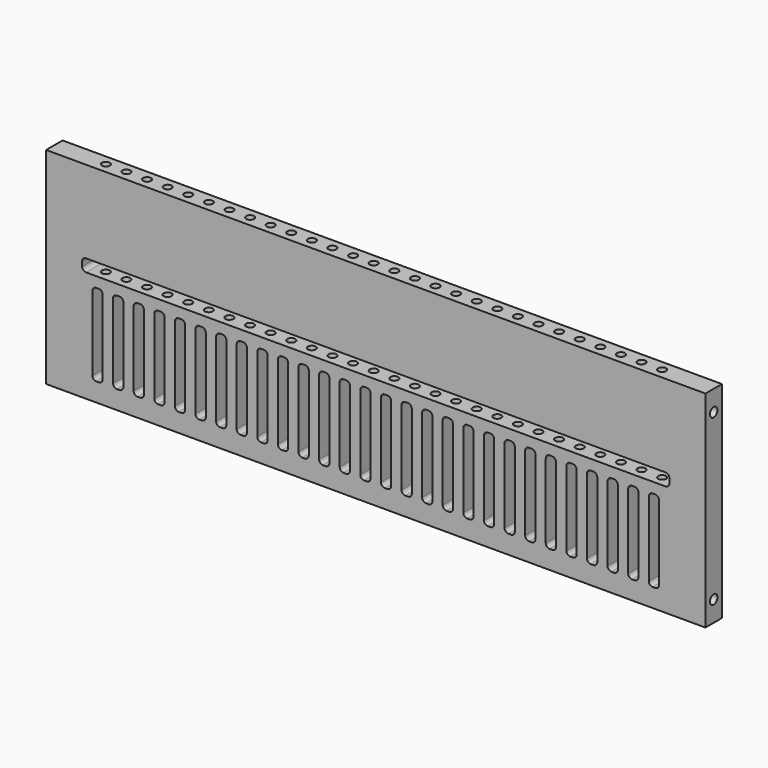
from build123d import *

# Parameters (mm, degrees)
F0_W     = 203.2
F0_H     = 6.35
F1_DEPTH = 63.5
F2_R     = 1.2192
F3_DEPTH = 38.1
F5_DEPTH = 6.351
F7_D     = 2.8702
F7_DEPTH = 12.7
F7_TIP   = 0.8622950744
F9_D     = 2.8702
F9_DEPTH = 12.7
F9_TIP   = 0.8622950744


with BuildPart() as f1:
    # F0 (on Top) → F1 (new body)
    with BuildSketch(Plane.XY):
        with Locations((76.8160429085, 3.175)):
            Rectangle(F0_W, F0_H)
    extrude(amount=F1_DEPTH)

    # F2 (on face) → F3 (cut)
    with BuildSketch(Plane.XY.offset(63.5)):
        with Locations((-8.9089570915, 3.175)):
            Circle(F2_R)
        with Locations((-2.5589570915, 3.175)):
            Circle(F2_R)
        with Locations((3.7910429085, 3.175)):
            Circle(F2_R)
        with Locations((10.1410429085, 3.175)):
            Circle(F2_R)
        with Locations((16.4910429085, 3.175)):
            Circle(F2_R)
        with Locations((22.8410429085, 3.175)):
            Circle(F2_R)
        with Locations((29.1910429085, 3.175)):
            Circle(F2_R)
        with Locations((35.5410429085, 3.175)):
            Circle(F2_R)
        with Locations((41.8910429085, 3.175)):
            Circle(F2_R)
        with Locations((48.2410429085, 3.175)):
            Circle(F2_R)
        with Locations((54.5910429085, 3.175)):
            Circle(F2_R)
        with Locations((60.9410429085, 3.175)):
            Circle(F2_R)
        with Locations((67.2910429085, 3.175)):
            Circle(F2_R)
        with Locations((73.6410429085, 3.175)):
            Circle(F2_R)
        with Locations((79.9910429085, 3.175)):
            Circle(F2_R)
        with Locations((86.3410429085, 3.175)):
            Circle(F2_R)
        with Locations((92.6910429085, 3.175)):
            Circle(F2_R)
        with Locations((99.0410429085, 3.175)):
            Circle(F2_R)
        with Locations((105.3910429085, 3.175)):
            Circle(F2_R)
        with Locations((111.7410429085, 3.175)):
            Circle(F2_R)
        with Locations((118.0910429085, 3.175)):
            Circle(F2_R)
        with Locations((124.4410429085, 3.175)):
            Circle(F2_R)
        with Locations((130.7910429085, 3.175)):
            Circle(F2_R)
        with Locations((137.1410429085, 3.175)):
            Circle(F2_R)
        with Locations((143.4910429085, 3.175)):
            Circle(F2_R)
        with Locations((149.8410429085, 3.175)):
            Circle(F2_R)
        with Locations((156.1910429085, 3.175)):
            Circle(F2_R)
        with Locations((162.5410429085, 3.175)):
            Circle(F2_R)
    extrude(amount=-F3_DEPTH, mode=Mode.SUBTRACT)

    # F4 (on face) → F5 (cut, through all)
    with BuildSketch(Plane.XZ):
        with BuildLine():
            Line((166.1129179085, 38.1), (-12.4808320915, 38.1))
            ThreePointArc((-12.4808320915, 38.1), (-13.3227311028, 37.7512740114), (-13.6714570915, 36.909375))
            Line((-13.6714570915, 36.909375), (-13.6714570915, 35.480625))
            ThreePointArc((-13.6714570915, 35.480625), (-13.3227311028, 34.6387259886), (-12.4808320915, 34.29))
            Line((-12.4808320915, 34.29), (166.1129179085, 34.29))
            ThreePointArc((166.1129179085, 34.29), (166.9548169199, 34.6387259886), (167.3035429085, 35.480625))
            Line((167.3035429085, 35.480625), (167.3035429085, 36.909375))
            ThreePointArc((167.3035429085, 36.909375), (166.9548169199, 37.7512740114), (166.1129179085, 38.1))
        make_face()
        with BuildLine():
            Line((-8.5120820915, 31.115), (-9.3058320915, 31.115))
            ThreePointArc((-9.3058320915, 31.115), (-10.1477311028, 30.7662740114), (-10.4964570915, 29.924375))
            Line((-10.4964570915, 29.924375), (-10.4964570915, 6.905625))
            ThreePointArc((-10.4964570915, 6.905625), (-10.1477311028, 6.0637259886), (-9.3058320915, 5.715))
            Line((-9.3058320915, 5.715), (-8.5120820915, 5.715))
            ThreePointArc((-8.5120820915, 5.715), (-7.6701830801, 6.0637259886), (-7.3214570915, 6.905625))
            Line((-7.3214570915, 6.905625), (-7.3214570915, 29.924375))
            ThreePointArc((-7.3214570915, 29.924375), (-7.6701830801, 30.7662740114), (-8.5120820915, 31.115))
        make_face()
        with BuildLine():
            Line((-0.9714570915, 6.905625), (-0.9714570915, 29.924375))
            ThreePointArc((-0.9714570915, 29.924375), (-1.3201830801, 30.7662740114), (-2.1620820915, 31.115))
            Line((-2.1620820915, 31.115), (-2.9558320915, 31.115))
            ThreePointArc((-2.9558320915, 31.115), (-3.7977311028, 30.7662740114), (-4.1464570915, 29.924375))
            Line((-4.1464570915, 29.924375), (-4.1464570915, 6.905625))
            ThreePointArc((-4.1464570915, 6.905625), (-3.7977311028, 6.0637259886), (-2.9558320915, 5.715))
            Line((-2.9558320915, 5.715), (-2.1620820915, 5.715))
            ThreePointArc((-2.1620820915, 5.715), (-1.3201830801, 6.0637259886), (-0.9714570915, 6.905625))
        make_face()
        with BuildLine():
            Line((5.3785429085, 6.905625), (5.3785429085, 29.924375))
            ThreePointArc((5.3785429085, 29.924375), (5.0298169199, 30.7662740114), (4.1879179085, 31.115))
            Line((4.1879179085, 31.115), (3.3941679085, 31.115))
            ThreePointArc((3.3941679085, 31.115), (2.5522688972, 30.7662740114), (2.2035429085, 29.924375))
            Line((2.2035429085, 29.924375), (2.2035429085, 6.905625))
            ThreePointArc((2.2035429085, 6.905625), (2.5522688972, 6.0637259886), (3.3941679085, 5.715))
            Line((3.3941679085, 5.715), (4.1879179085, 5.715))
            ThreePointArc((4.1879179085, 5.715), (5.0298169199, 6.0637259886), (5.3785429085, 6.905625))
        make_face()
        with BuildLine():
            Line((11.7285429085, 6.905625), (11.7285429085, 29.924375))
            ThreePointArc((11.7285429085, 29.924375), (11.3798169199, 30.7662740114), (10.5379179085, 31.115))
            Line((10.5379179085, 31.115), (9.7441679085, 31.115))
            ThreePointArc((9.7441679085, 31.115), (8.9022688972, 30.7662740114), (8.5535429085, 29.924375))
            Line((8.5535429085, 29.924375), (8.5535429085, 6.905625))
            ThreePointArc((8.5535429085, 6.905625), (8.9022688972, 6.0637259886), (9.7441679085, 5.715))
            Line((9.7441679085, 5.715), (10.5379179085, 5.715))
            ThreePointArc((10.5379179085, 5.715), (11.3798169199, 6.0637259886), (11.7285429085, 6.905625))
        make_face()
        with BuildLine():
            Line((18.0785429085, 6.905625), (18.0785429085, 29.924375))
            ThreePointArc((18.0785429085, 29.924375), (17.7298169199, 30.7662740114), (16.8879179085, 31.115))
            Line((16.8879179085, 31.115), (16.0941679085, 31.115))
            ThreePointArc((16.0941679085, 31.115), (15.2522688972, 30.7662740114), (14.9035429085, 29.924375))
            Line((14.9035429085, 29.924375), (14.9035429085, 6.905625))
            ThreePointArc((14.9035429085, 6.905625), (15.2522688972, 6.0637259886), (16.0941679085, 5.715))
            Line((16.0941679085, 5.715), (16.8879179085, 5.715))
            ThreePointArc((16.8879179085, 5.715), (17.7298169199, 6.0637259886), (18.0785429085, 6.905625))
        make_face()
        with BuildLine():
            Line((24.4285429085, 6.905625), (24.4285429085, 29.924375))
            ThreePointArc((24.4285429085, 29.924375), (24.0798169199, 30.7662740114), (23.2379179085, 31.115))
            Line((23.2379179085, 31.115), (22.4441679085, 31.115))
            ThreePointArc((22.4441679085, 31.115), (21.6022688972, 30.7662740114), (21.2535429085, 29.924375))
            Line((21.2535429085, 29.924375), (21.2535429085, 6.905625))
            ThreePointArc((21.2535429085, 6.905625), (21.6022688972, 6.0637259886), (22.4441679085, 5.715))
            Line((22.4441679085, 5.715), (23.2379179085, 5.715))
            ThreePointArc((23.2379179085, 5.715), (24.0798169199, 6.0637259886), (24.4285429085, 6.905625))
        make_face()
        with BuildLine():
            Line((30.7785429085, 6.905625), (30.7785429085, 29.924375))
            ThreePointArc((30.7785429085, 29.924375), (30.4298169199, 30.7662740114), (29.5879179085, 31.115))
            Line((29.5879179085, 31.115), (28.7941679085, 31.115))
            ThreePointArc((28.7941679085, 31.115), (27.9522688972, 30.7662740114), (27.6035429085, 29.924375))
            Line((27.6035429085, 29.924375), (27.6035429085, 6.905625))
            ThreePointArc((27.6035429085, 6.905625), (27.9522688972, 6.0637259886), (28.7941679085, 5.715))
            Line((28.7941679085, 5.715), (29.5879179085, 5.715))
            ThreePointArc((29.5879179085, 5.715), (30.4298169199, 6.0637259886), (30.7785429085, 6.905625))
        make_face()
        with BuildLine():
            Line((37.1285429085, 6.905625), (37.1285429085, 29.924375))
            ThreePointArc((37.1285429085, 29.924375), (36.7798169199, 30.7662740114), (35.9379179085, 31.115))
            Line((35.9379179085, 31.115), (35.1441679085, 31.115))
            ThreePointArc((35.1441679085, 31.115), (34.3022688972, 30.7662740114), (33.9535429085, 29.924375))
            Line((33.9535429085, 29.924375), (33.9535429085, 6.905625))
            ThreePointArc((33.9535429085, 6.905625), (34.3022688972, 6.0637259886), (35.1441679085, 5.715))
            Line((35.1441679085, 5.715), (35.9379179085, 5.715))
            ThreePointArc((35.9379179085, 5.715), (36.7798169199, 6.0637259886), (37.1285429085, 6.905625))
        make_face()
        with BuildLine():
            Line((43.4785429085, 6.905625), (43.4785429085, 29.924375))
            ThreePointArc((43.4785429085, 29.924375), (43.1298169199, 30.7662740114), (42.2879179085, 31.115))
            Line((42.2879179085, 31.115), (41.4941679085, 31.115))
            ThreePointArc((41.4941679085, 31.115), (40.6522688972, 30.7662740114), (40.3035429085, 29.924375))
            Line((40.3035429085, 29.924375), (40.3035429085, 6.905625))
            ThreePointArc((40.3035429085, 6.905625), (40.6522688972, 6.0637259886), (41.4941679085, 5.715))
            Line((41.4941679085, 5.715), (42.2879179085, 5.715))
            ThreePointArc((42.2879179085, 5.715), (43.1298169199, 6.0637259886), (43.4785429085, 6.905625))
        make_face()
        with BuildLine():
            Line((49.8285429085, 6.905625), (49.8285429085, 29.924375))
            ThreePointArc((49.8285429085, 29.924375), (49.4798169199, 30.7662740114), (48.6379179085, 31.115))
            Line((48.6379179085, 31.115), (47.8441679085, 31.115))
            ThreePointArc((47.8441679085, 31.115), (47.0022688972, 30.7662740114), (46.6535429085, 29.924375))
            Line((46.6535429085, 29.924375), (46.6535429085, 6.905625))
            ThreePointArc((46.6535429085, 6.905625), (47.0022688972, 6.0637259886), (47.8441679085, 5.715))
            Line((47.8441679085, 5.715), (48.6379179085, 5.715))
            ThreePointArc((48.6379179085, 5.715), (49.4798169199, 6.0637259886), (49.8285429085, 6.905625))
        make_face()
        with BuildLine():
            Line((56.1785429085, 6.905625), (56.1785429085, 29.924375))
            ThreePointArc((56.1785429085, 29.924375), (55.8298169199, 30.7662740114), (54.9879179085, 31.115))
            Line((54.9879179085, 31.115), (54.1941679085, 31.115))
            ThreePointArc((54.1941679085, 31.115), (53.3522688972, 30.7662740114), (53.0035429085, 29.924375))
            Line((53.0035429085, 29.924375), (53.0035429085, 6.905625))
            ThreePointArc((53.0035429085, 6.905625), (53.3522688972, 6.0637259886), (54.1941679085, 5.715))
            Line((54.1941679085, 5.715), (54.9879179085, 5.715))
            ThreePointArc((54.9879179085, 5.715), (55.8298169199, 6.0637259886), (56.1785429085, 6.905625))
        make_face()
        with BuildLine():
            Line((62.5285429085, 6.905625), (62.5285429085, 29.924375))
            ThreePointArc((62.5285429085, 29.924375), (62.1798169199, 30.7662740114), (61.3379179085, 31.115))
            Line((61.3379179085, 31.115), (60.5441679085, 31.115))
            ThreePointArc((60.5441679085, 31.115), (59.7022688972, 30.7662740114), (59.3535429085, 29.924375))
            Line((59.3535429085, 29.924375), (59.3535429085, 6.905625))
            ThreePointArc((59.3535429085, 6.905625), (59.7022688972, 6.0637259886), (60.5441679085, 5.715))
            Line((60.5441679085, 5.715), (61.3379179085, 5.715))
            ThreePointArc((61.3379179085, 5.715), (62.1798169199, 6.0637259886), (62.5285429085, 6.905625))
        make_face()
        with BuildLine():
            Line((68.8785429085, 6.905625), (68.8785429085, 29.924375))
            ThreePointArc((68.8785429085, 29.924375), (68.5298169199, 30.7662740114), (67.6879179085, 31.115))
            Line((67.6879179085, 31.115), (66.8941679085, 31.115))
            ThreePointArc((66.8941679085, 31.115), (66.0522688972, 30.7662740114), (65.7035429085, 29.924375))
            Line((65.7035429085, 29.924375), (65.7035429085, 6.905625))
            ThreePointArc((65.7035429085, 6.905625), (66.0522688972, 6.0637259886), (66.8941679085, 5.715))
            Line((66.8941679085, 5.715), (67.6879179085, 5.715))
            ThreePointArc((67.6879179085, 5.715), (68.5298169199, 6.0637259886), (68.8785429085, 6.905625))
        make_face()
        with BuildLine():
            Line((75.2285429085, 6.905625), (75.2285429085, 29.924375))
            ThreePointArc((75.2285429085, 29.924375), (74.8798169199, 30.7662740114), (74.0379179085, 31.115))
            Line((74.0379179085, 31.115), (73.2441679085, 31.115))
            ThreePointArc((73.2441679085, 31.115), (72.4022688972, 30.7662740114), (72.0535429085, 29.924375))
            Line((72.0535429085, 29.924375), (72.0535429085, 6.905625))
            ThreePointArc((72.0535429085, 6.905625), (72.4022688972, 6.0637259886), (73.2441679085, 5.715))
            Line((73.2441679085, 5.715), (74.0379179085, 5.715))
            ThreePointArc((74.0379179085, 5.715), (74.8798169199, 6.0637259886), (75.2285429085, 6.905625))
        make_face()
        with BuildLine():
            Line((81.5785429085, 6.905625), (81.5785429085, 29.924375))
            ThreePointArc((81.5785429085, 29.924375), (81.2298169199, 30.7662740114), (80.3879179085, 31.115))
            Line((80.3879179085, 31.115), (79.5941679085, 31.115))
            ThreePointArc((79.5941679085, 31.115), (78.7522688972, 30.7662740114), (78.4035429085, 29.924375))
            Line((78.4035429085, 29.924375), (78.4035429085, 6.905625))
            ThreePointArc((78.4035429085, 6.905625), (78.7522688972, 6.0637259886), (79.5941679085, 5.715))
            Line((79.5941679085, 5.715), (80.3879179085, 5.715))
            ThreePointArc((80.3879179085, 5.715), (81.2298169199, 6.0637259886), (81.5785429085, 6.905625))
        make_face()
        with BuildLine():
            Line((87.9285429085, 6.905625), (87.9285429085, 29.924375))
            ThreePointArc((87.9285429085, 29.924375), (87.5798169199, 30.7662740114), (86.7379179085, 31.115))
            Line((86.7379179085, 31.115), (85.9441679085, 31.115))
            ThreePointArc((85.9441679085, 31.115), (85.1022688972, 30.7662740114), (84.7535429085, 29.924375))
            Line((84.7535429085, 29.924375), (84.7535429085, 6.905625))
            ThreePointArc((84.7535429085, 6.905625), (85.1022688972, 6.0637259886), (85.9441679085, 5.715))
            Line((85.9441679085, 5.715), (86.7379179085, 5.715))
            ThreePointArc((86.7379179085, 5.715), (87.5798169199, 6.0637259886), (87.9285429085, 6.905625))
        make_face()
        with BuildLine():
            Line((94.2785429085, 6.905625), (94.2785429085, 29.924375))
            ThreePointArc((94.2785429085, 29.924375), (93.9298169199, 30.7662740114), (93.0879179085, 31.115))
            Line((93.0879179085, 31.115), (92.2941679085, 31.115))
            ThreePointArc((92.2941679085, 31.115), (91.4522688972, 30.7662740114), (91.1035429085, 29.924375))
            Line((91.1035429085, 29.924375), (91.1035429085, 6.905625))
            ThreePointArc((91.1035429085, 6.905625), (91.4522688972, 6.0637259886), (92.2941679085, 5.715))
            Line((92.2941679085, 5.715), (93.0879179085, 5.715))
            ThreePointArc((93.0879179085, 5.715), (93.9298169199, 6.0637259886), (94.2785429085, 6.905625))
        make_face()
        with BuildLine():
            Line((100.6285429085, 6.905625), (100.6285429085, 29.924375))
            ThreePointArc((100.6285429085, 29.924375), (100.2798169199, 30.7662740114), (99.4379179085, 31.115))
            Line((99.4379179085, 31.115), (98.6441679085, 31.115))
            ThreePointArc((98.6441679085, 31.115), (97.8022688972, 30.7662740114), (97.4535429085, 29.924375))
            Line((97.4535429085, 29.924375), (97.4535429085, 6.905625))
            ThreePointArc((97.4535429085, 6.905625), (97.8022688972, 6.0637259886), (98.6441679085, 5.715))
            Line((98.6441679085, 5.715), (99.4379179085, 5.715))
            ThreePointArc((99.4379179085, 5.715), (100.2798169199, 6.0637259886), (100.6285429085, 6.905625))
        make_face()
        with BuildLine():
            Line((106.9785429085, 6.905625), (106.9785429085, 29.924375))
            ThreePointArc((106.9785429085, 29.924375), (106.6298169199, 30.7662740114), (105.7879179085, 31.115))
            Line((105.7879179085, 31.115), (104.9941679085, 31.115))
            ThreePointArc((104.9941679085, 31.115), (104.1522688972, 30.7662740114), (103.8035429085, 29.924375))
            Line((103.8035429085, 29.924375), (103.8035429085, 6.905625))
            ThreePointArc((103.8035429085, 6.905625), (104.1522688972, 6.0637259886), (104.9941679085, 5.715))
            Line((104.9941679085, 5.715), (105.7879179085, 5.715))
            ThreePointArc((105.7879179085, 5.715), (106.6298169199, 6.0637259886), (106.9785429085, 6.905625))
        make_face()
        with BuildLine():
            Line((113.3285429085, 6.905625), (113.3285429085, 29.924375))
            ThreePointArc((113.3285429085, 29.924375), (112.9798169199, 30.7662740114), (112.1379179085, 31.115))
            Line((112.1379179085, 31.115), (111.3441679085, 31.115))
            ThreePointArc((111.3441679085, 31.115), (110.5022688972, 30.7662740114), (110.1535429085, 29.924375))
            Line((110.1535429085, 29.924375), (110.1535429085, 6.905625))
            ThreePointArc((110.1535429085, 6.905625), (110.5022688972, 6.0637259886), (111.3441679085, 5.715))
            Line((111.3441679085, 5.715), (112.1379179085, 5.715))
            ThreePointArc((112.1379179085, 5.715), (112.9798169199, 6.0637259886), (113.3285429085, 6.905625))
        make_face()
        with BuildLine():
            Line((119.6785429085, 6.905625), (119.6785429085, 29.924375))
            ThreePointArc((119.6785429085, 29.924375), (119.3298169199, 30.7662740114), (118.4879179085, 31.115))
            Line((118.4879179085, 31.115), (117.6941679085, 31.115))
            ThreePointArc((117.6941679085, 31.115), (116.8522688972, 30.7662740114), (116.5035429085, 29.924375))
            Line((116.5035429085, 29.924375), (116.5035429085, 6.905625))
            ThreePointArc((116.5035429085, 6.905625), (116.8522688972, 6.0637259886), (117.6941679085, 5.715))
            Line((117.6941679085, 5.715), (118.4879179085, 5.715))
            ThreePointArc((118.4879179085, 5.715), (119.3298169199, 6.0637259886), (119.6785429085, 6.905625))
        make_face()
        with BuildLine():
            Line((126.0285429085, 6.905625), (126.0285429085, 29.924375))
            ThreePointArc((126.0285429085, 29.924375), (125.6798169199, 30.7662740114), (124.8379179085, 31.115))
            Line((124.8379179085, 31.115), (124.0441679085, 31.115))
            ThreePointArc((124.0441679085, 31.115), (123.2022688972, 30.7662740114), (122.8535429085, 29.924375))
            Line((122.8535429085, 29.924375), (122.8535429085, 6.905625))
            ThreePointArc((122.8535429085, 6.905625), (123.2022688972, 6.0637259886), (124.0441679085, 5.715))
            Line((124.0441679085, 5.715), (124.8379179085, 5.715))
            ThreePointArc((124.8379179085, 5.715), (125.6798169199, 6.0637259886), (126.0285429085, 6.905625))
        make_face()
        with BuildLine():
            Line((132.3785429085, 6.905625), (132.3785429085, 29.924375))
            ThreePointArc((132.3785429085, 29.924375), (132.0298169199, 30.7662740114), (131.1879179085, 31.115))
            Line((131.1879179085, 31.115), (130.3941679085, 31.115))
            ThreePointArc((130.3941679085, 31.115), (129.5522688972, 30.7662740114), (129.2035429085, 29.924375))
            Line((129.2035429085, 29.924375), (129.2035429085, 6.905625))
            ThreePointArc((129.2035429085, 6.905625), (129.5522688972, 6.0637259886), (130.3941679085, 5.715))
            Line((130.3941679085, 5.715), (131.1879179085, 5.715))
            ThreePointArc((131.1879179085, 5.715), (132.0298169199, 6.0637259886), (132.3785429085, 6.905625))
        make_face()
        with BuildLine():
            Line((138.7285429085, 6.905625), (138.7285429085, 29.924375))
            ThreePointArc((138.7285429085, 29.924375), (138.3798169199, 30.7662740114), (137.5379179085, 31.115))
            Line((137.5379179085, 31.115), (136.7441679085, 31.115))
            ThreePointArc((136.7441679085, 31.115), (135.9022688972, 30.7662740114), (135.5535429085, 29.924375))
            Line((135.5535429085, 29.924375), (135.5535429085, 6.905625))
            ThreePointArc((135.5535429085, 6.905625), (135.9022688972, 6.0637259886), (136.7441679085, 5.715))
            Line((136.7441679085, 5.715), (137.5379179085, 5.715))
            ThreePointArc((137.5379179085, 5.715), (138.3798169199, 6.0637259886), (138.7285429085, 6.905625))
        make_face()
        with BuildLine():
            Line((145.0785429085, 6.905625), (145.0785429085, 29.924375))
            ThreePointArc((145.0785429085, 29.924375), (144.7298169199, 30.7662740114), (143.8879179085, 31.115))
            Line((143.8879179085, 31.115), (143.0941679085, 31.115))
            ThreePointArc((143.0941679085, 31.115), (142.2522688972, 30.7662740114), (141.9035429085, 29.924375))
            Line((141.9035429085, 29.924375), (141.9035429085, 6.905625))
            ThreePointArc((141.9035429085, 6.905625), (142.2522688972, 6.0637259886), (143.0941679085, 5.715))
            Line((143.0941679085, 5.715), (143.8879179085, 5.715))
            ThreePointArc((143.8879179085, 5.715), (144.7298169199, 6.0637259886), (145.0785429085, 6.905625))
        make_face()
        with BuildLine():
            Line((151.4285429085, 6.905625), (151.4285429085, 29.924375))
            ThreePointArc((151.4285429085, 29.924375), (151.0798169199, 30.7662740114), (150.2379179085, 31.115))
            Line((150.2379179085, 31.115), (149.4441679085, 31.115))
            ThreePointArc((149.4441679085, 31.115), (148.6022688972, 30.7662740114), (148.2535429085, 29.924375))
            Line((148.2535429085, 29.924375), (148.2535429085, 6.905625))
            ThreePointArc((148.2535429085, 6.905625), (148.6022688972, 6.0637259886), (149.4441679085, 5.715))
            Line((149.4441679085, 5.715), (150.2379179085, 5.715))
            ThreePointArc((150.2379179085, 5.715), (151.0798169199, 6.0637259886), (151.4285429085, 6.905625))
        make_face()
        with BuildLine():
            Line((157.7785429085, 6.905625), (157.7785429085, 29.924375))
            ThreePointArc((157.7785429085, 29.924375), (157.4298169199, 30.7662740114), (156.5879179085, 31.115))
            Line((156.5879179085, 31.115), (155.7941679085, 31.115))
            ThreePointArc((155.7941679085, 31.115), (154.9522688972, 30.7662740114), (154.6035429085, 29.924375))
            Line((154.6035429085, 29.924375), (154.6035429085, 6.905625))
            ThreePointArc((154.6035429085, 6.905625), (154.9522688972, 6.0637259886), (155.7941679085, 5.715))
            Line((155.7941679085, 5.715), (156.5879179085, 5.715))
            ThreePointArc((156.5879179085, 5.715), (157.4298169199, 6.0637259886), (157.7785429085, 6.905625))
        make_face()
        with BuildLine():
            Line((164.1285429085, 6.905625), (164.1285429085, 29.924375))
            ThreePointArc((164.1285429085, 29.924375), (163.7798169199, 30.7662740114), (162.9379179085, 31.115))
            Line((162.9379179085, 31.115), (162.1441679085, 31.115))
            ThreePointArc((162.1441679085, 31.115), (161.3022688972, 30.7662740114), (160.9535429085, 29.924375))
            Line((160.9535429085, 29.924375), (160.9535429085, 6.905625))
            ThreePointArc((160.9535429085, 6.905625), (161.3022688972, 6.0637259886), (162.1441679085, 5.715))
            Line((162.1441679085, 5.715), (162.9379179085, 5.715))
            ThreePointArc((162.9379179085, 5.715), (163.7798169199, 6.0637259886), (164.1285429085, 6.905625))
        make_face()
    extrude(amount=-F5_DEPTH, mode=Mode.SUBTRACT)

    # F7
    with Locations(Plane.YZ.offset(178.4160429085)):
        with Locations((3.175, 57.15), (3.175, 6.35)):
            Hole(F7_D / 2, depth=F7_DEPTH)
            with Locations((0, 0, -(F7_DEPTH + F7_TIP / 2))):  # 118° drill point
                Cone(0, F7_D / 2, F7_TIP, mode=Mode.SUBTRACT)

    # F9
    with Locations(Plane(origin=(-24.7839570915, 0, 0), x_dir=(0, -1, 0), z_dir=(-1, 0, 0))):
        with Locations((-3.175, 57.15), (-3.175, 6.35)):
            Hole(F9_D / 2, depth=F9_DEPTH)
            with Locations((0, 0, -(F9_DEPTH + F9_TIP / 2))):  # 118° drill point
                Cone(0, F9_D / 2, F9_TIP, mode=Mode.SUBTRACT)


solid = f1.part
